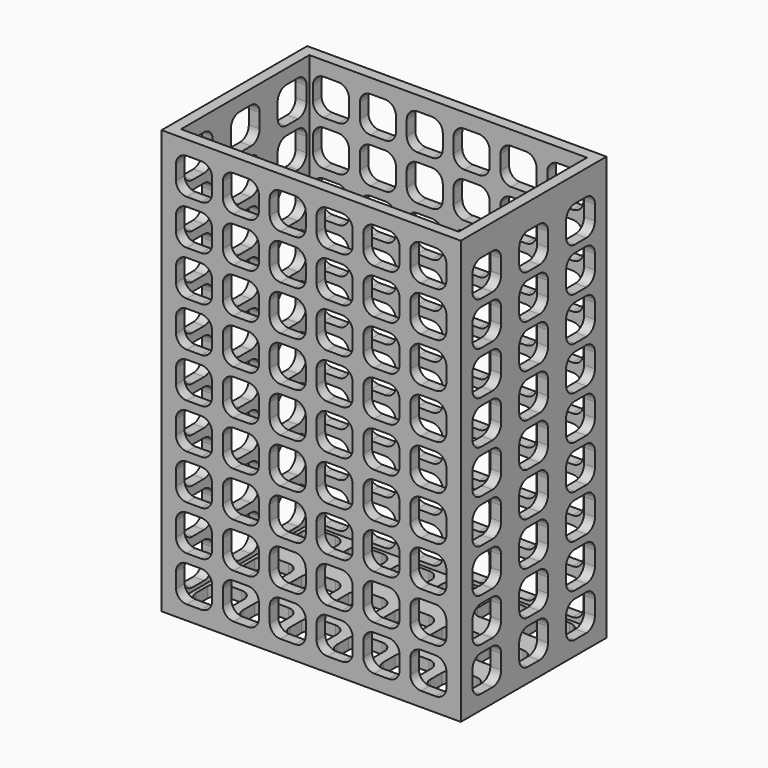
from build123d import *

# Parameters (mm, degrees)
SKETCH_W                           = 83
SKETCH_H                           = 50.5
PAD_DEPTH                          = 117.5
SKETCH001_W                        = 77
SKETCH001_H                        = 44.5
POCKET_DEPTH                       = 114.5
POCKET001_DEPTH                    = 3
POCKET001_LINEARPATTERN_2_DEPTH    = 3
POCKET001_LINEARPATTERN_3_DEPTH    = 3
POCKET001_LINEARPATTERN_4_DEPTH    = 3
POCKET001_LINEARPATTERN_5_DEPTH    = 3
POCKET001_LINEARPATTERN_6_DEPTH    = 3
LINEARPATTERN001_COUNT             = 9
LINEARPATTERN001_PITCH             = 12.4375
POCKET002_DEPTH                    = 3
POCKET002_LINEARPATTERN003_2_DEPTH = 3
POCKET002_LINEARPATTERN003_3_DEPTH = 3
POCKET002_LINEARPATTERN003_4_DEPTH = 3
POCKET002_LINEARPATTERN003_5_DEPTH = 3
POCKET002_LINEARPATTERN003_6_DEPTH = 3
LINEARPATTERN004_COUNT             = 3
LINEARPATTERN004_PITCH             = 16.25
POCKET003_DEPTH                    = 3
POCKET003_LINEARPATTERN005_2_DEPTH = 3
POCKET003_LINEARPATTERN005_3_DEPTH = 3
LINEARPATTERN006_COUNT             = 9
LINEARPATTERN006_PITCH             = 12.4375
POCKET004_DEPTH                    = 3
POCKET004_LINEARPATTERN007_2_DEPTH = 3
POCKET004_LINEARPATTERN007_3_DEPTH = 3
POCKET004_LINEARPATTERN007_4_DEPTH = 3
POCKET004_LINEARPATTERN007_5_DEPTH = 3
POCKET004_LINEARPATTERN007_6_DEPTH = 3
LINEARPATTERN008_COUNT             = 9
LINEARPATTERN008_PITCH             = 12.4375
POCKET005_DEPTH                    = 3
POCKET005_LINEARPATTERN009_2_DEPTH = 3
POCKET005_LINEARPATTERN009_3_DEPTH = 3
LINEARPATTERN010_COUNT             = 9
LINEARPATTERN010_PITCH             = 12.0625


with BuildPart() as part:
    # Sketch → Pad (new body)
    with BuildSketch(Plane.XY):
        with Locations((41.5, 25.25)):
            Rectangle(SKETCH_W, SKETCH_H)
    extrude(amount=PAD_DEPTH)

    # Sketch001 (on Face6 of Pad) → Pocket (cut)
    with BuildSketch(Plane.XY.offset(117.5)):
        with Locations((41.5, 25.25)):
            Rectangle(SKETCH001_W, SKETCH001_H)
    extrude(amount=-POCKET_DEPTH, mode=Mode.SUBTRACT)

    # Sketch002 (on Face1 of Pocket) → Pocket001 (cut)
    with BuildSketch(Plane.XZ):
        with BuildLine():
            Line((7, 14), (11, 14))
            ThreePointArc((14, 11), (13.12132, 13.12132), (11, 14))
            Line((14, 11), (14, 7))
            ThreePointArc((11, 4), (13.12132, 4.87868), (14, 7))
            Line((11, 4), (7, 4))
            ThreePointArc((4, 7), (4.87868, 4.87868), (7, 4))
            Line((4, 7), (4, 11))
            ThreePointArc((7, 14), (4.87868, 13.12132), (4, 11))
        make_face()
    pocket001 = extrude(amount=-POCKET001_DEPTH, mode=Mode.SUBTRACT)

    # Sketch002 LinearPattern 2 → Pocket001 LinearPattern 2 (cut)
    with BuildSketch(Plane(origin=(13, 0, 0), x_dir=(1, 0, 0), z_dir=(0, -1, 0))):
        with BuildLine():
            Line((7, 14), (11, 14))
            ThreePointArc((14, 11), (13.12132, 13.12132), (11, 14))
            Line((14, 11), (14, 7))
            ThreePointArc((11, 4), (13.12132, 4.87868), (14, 7))
            Line((11, 4), (7, 4))
            ThreePointArc((4, 7), (4.87868, 4.87868), (7, 4))
            Line((4, 7), (4, 11))
            ThreePointArc((7, 14), (4.87868, 13.12132), (4, 11))
        make_face()
    pocket001_linearpattern_2 = extrude(amount=-POCKET001_LINEARPATTERN_2_DEPTH, mode=Mode.SUBTRACT)

    # Sketch002 LinearPattern 3 → Pocket001 LinearPattern 3 (cut)
    with BuildSketch(Plane(origin=(26, 0, 0), x_dir=(1, 0, 0), z_dir=(0, -1, 0))):
        with BuildLine():
            Line((7, 14), (11, 14))
            ThreePointArc((14, 11), (13.12132, 13.12132), (11, 14))
            Line((14, 11), (14, 7))
            ThreePointArc((11, 4), (13.12132, 4.87868), (14, 7))
            Line((11, 4), (7, 4))
            ThreePointArc((4, 7), (4.87868, 4.87868), (7, 4))
            Line((4, 7), (4, 11))
            ThreePointArc((7, 14), (4.87868, 13.12132), (4, 11))
        make_face()
    pocket001_linearpattern_3 = extrude(amount=-POCKET001_LINEARPATTERN_3_DEPTH, mode=Mode.SUBTRACT)

    # Sketch002 LinearPattern 4 → Pocket001 LinearPattern 4 (cut)
    with BuildSketch(Plane(origin=(39, 0, 0), x_dir=(1, 0, 0), z_dir=(0, -1, 0))):
        with BuildLine():
            Line((7, 14), (11, 14))
            ThreePointArc((14, 11), (13.12132, 13.12132), (11, 14))
            Line((14, 11), (14, 7))
            ThreePointArc((11, 4), (13.12132, 4.87868), (14, 7))
            Line((11, 4), (7, 4))
            ThreePointArc((4, 7), (4.87868, 4.87868), (7, 4))
            Line((4, 7), (4, 11))
            ThreePointArc((7, 14), (4.87868, 13.12132), (4, 11))
        make_face()
    pocket001_linearpattern_4 = extrude(amount=-POCKET001_LINEARPATTERN_4_DEPTH, mode=Mode.SUBTRACT)

    # Sketch002 LinearPattern 5 → Pocket001 LinearPattern 5 (cut)
    with BuildSketch(Plane(origin=(52, 0, 0), x_dir=(1, 0, 0), z_dir=(0, -1, 0))):
        with BuildLine():
            Line((7, 14), (11, 14))
            ThreePointArc((14, 11), (13.12132, 13.12132), (11, 14))
            Line((14, 11), (14, 7))
            ThreePointArc((11, 4), (13.12132, 4.87868), (14, 7))
            Line((11, 4), (7, 4))
            ThreePointArc((4, 7), (4.87868, 4.87868), (7, 4))
            Line((4, 7), (4, 11))
            ThreePointArc((7, 14), (4.87868, 13.12132), (4, 11))
        make_face()
    pocket001_linearpattern_5 = extrude(amount=-POCKET001_LINEARPATTERN_5_DEPTH, mode=Mode.SUBTRACT)

    # Sketch002 LinearPattern 6 → Pocket001 LinearPattern 6 (cut)
    with BuildSketch(Plane(origin=(65, 0, 0), x_dir=(1, 0, 0), z_dir=(0, -1, 0))):
        with BuildLine():
            Line((7, 14), (11, 14))
            ThreePointArc((14, 11), (13.12132, 13.12132), (11, 14))
            Line((14, 11), (14, 7))
            ThreePointArc((11, 4), (13.12132, 4.87868), (14, 7))
            Line((11, 4), (7, 4))
            ThreePointArc((4, 7), (4.87868, 4.87868), (7, 4))
            Line((4, 7), (4, 11))
            ThreePointArc((7, 14), (4.87868, 13.12132), (4, 11))
        make_face()
    pocket001_linearpattern_6 = extrude(amount=-POCKET001_LINEARPATTERN_6_DEPTH, mode=Mode.SUBTRACT)

    # LinearPattern001: Pocket001, Pocket001 LinearPattern 2, Pocket001 LinearPattern 3, Pocket001 LinearPattern 4, Pocket001 LinearPattern 5, Pocket001 LinearPattern 6 ×9
    with Locations(*[(0, 0, i * LINEARPATTERN001_PITCH) for i in range(1, LINEARPATTERN001_COUNT)]):
        add(pocket001, mode=Mode.SUBTRACT)
        add(pocket001_linearpattern_2, mode=Mode.SUBTRACT)
        add(pocket001_linearpattern_3, mode=Mode.SUBTRACT)
        add(pocket001_linearpattern_4, mode=Mode.SUBTRACT)
        add(pocket001_linearpattern_5, mode=Mode.SUBTRACT)
        add(pocket001_linearpattern_6, mode=Mode.SUBTRACT)

    # Sketch003 (on Face3 of MultiTransform) → Pocket002 (cut)
    with BuildSketch(Plane(origin=(0, 0, 0), x_dir=(1, 0, 0), z_dir=(0, 0, -1))):
        with BuildLine():
            Line((7, -4), (11, -4))
            ThreePointArc((14, -7), (13.12132, -4.87868), (11, -4))
            Line((14, -7), (14, -11))
            ThreePointArc((11, -14), (13.12132, -13.12132), (14, -11))
            Line((11, -14), (7, -14))
            ThreePointArc((4, -11), (4.87868, -13.12132), (7, -14))
            Line((4, -11), (4, -7))
            ThreePointArc((7, -4), (4.87868, -4.87868), (4, -7))
        make_face()
    pocket002 = extrude(amount=-POCKET002_DEPTH, mode=Mode.SUBTRACT)

    # Sketch003 LinearPattern003 2 → Pocket002 LinearPattern003 2 (cut)
    with BuildSketch(Plane(origin=(13, 0, 0), x_dir=(1, 0, 0), z_dir=(0, 0, -1))):
        with BuildLine():
            Line((7, -4), (11, -4))
            ThreePointArc((14, -7), (13.12132, -4.87868), (11, -4))
            Line((14, -7), (14, -11))
            ThreePointArc((11, -14), (13.12132, -13.12132), (14, -11))
            Line((11, -14), (7, -14))
            ThreePointArc((4, -11), (4.87868, -13.12132), (7, -14))
            Line((4, -11), (4, -7))
            ThreePointArc((7, -4), (4.87868, -4.87868), (4, -7))
        make_face()
    pocket002_linearpattern003_2 = extrude(amount=-POCKET002_LINEARPATTERN003_2_DEPTH, mode=Mode.SUBTRACT)

    # Sketch003 LinearPattern003 3 → Pocket002 LinearPattern003 3 (cut)
    with BuildSketch(Plane(origin=(26, 0, 0), x_dir=(1, 0, 0), z_dir=(0, 0, -1))):
        with BuildLine():
            Line((7, -4), (11, -4))
            ThreePointArc((14, -7), (13.12132, -4.87868), (11, -4))
            Line((14, -7), (14, -11))
            ThreePointArc((11, -14), (13.12132, -13.12132), (14, -11))
            Line((11, -14), (7, -14))
            ThreePointArc((4, -11), (4.87868, -13.12132), (7, -14))
            Line((4, -11), (4, -7))
            ThreePointArc((7, -4), (4.87868, -4.87868), (4, -7))
        make_face()
    pocket002_linearpattern003_3 = extrude(amount=-POCKET002_LINEARPATTERN003_3_DEPTH, mode=Mode.SUBTRACT)

    # Sketch003 LinearPattern003 4 → Pocket002 LinearPattern003 4 (cut)
    with BuildSketch(Plane(origin=(39, 0, 0), x_dir=(1, 0, 0), z_dir=(0, 0, -1))):
        with BuildLine():
            Line((7, -4), (11, -4))
            ThreePointArc((14, -7), (13.12132, -4.87868), (11, -4))
            Line((14, -7), (14, -11))
            ThreePointArc((11, -14), (13.12132, -13.12132), (14, -11))
            Line((11, -14), (7, -14))
            ThreePointArc((4, -11), (4.87868, -13.12132), (7, -14))
            Line((4, -11), (4, -7))
            ThreePointArc((7, -4), (4.87868, -4.87868), (4, -7))
        make_face()
    pocket002_linearpattern003_4 = extrude(amount=-POCKET002_LINEARPATTERN003_4_DEPTH, mode=Mode.SUBTRACT)

    # Sketch003 LinearPattern003 5 → Pocket002 LinearPattern003 5 (cut)
    with BuildSketch(Plane(origin=(52, 0, 0), x_dir=(1, 0, 0), z_dir=(0, 0, -1))):
        with BuildLine():
            Line((7, -4), (11, -4))
            ThreePointArc((14, -7), (13.12132, -4.87868), (11, -4))
            Line((14, -7), (14, -11))
            ThreePointArc((11, -14), (13.12132, -13.12132), (14, -11))
            Line((11, -14), (7, -14))
            ThreePointArc((4, -11), (4.87868, -13.12132), (7, -14))
            Line((4, -11), (4, -7))
            ThreePointArc((7, -4), (4.87868, -4.87868), (4, -7))
        make_face()
    pocket002_linearpattern003_5 = extrude(amount=-POCKET002_LINEARPATTERN003_5_DEPTH, mode=Mode.SUBTRACT)

    # Sketch003 LinearPattern003 6 → Pocket002 LinearPattern003 6 (cut)
    with BuildSketch(Plane(origin=(65, 0, 0), x_dir=(1, 0, 0), z_dir=(0, 0, -1))):
        with BuildLine():
            Line((7, -4), (11, -4))
            ThreePointArc((14, -7), (13.12132, -4.87868), (11, -4))
            Line((14, -7), (14, -11))
            ThreePointArc((11, -14), (13.12132, -13.12132), (14, -11))
            Line((11, -14), (7, -14))
            ThreePointArc((4, -11), (4.87868, -13.12132), (7, -14))
            Line((4, -11), (4, -7))
            ThreePointArc((7, -4), (4.87868, -4.87868), (4, -7))
        make_face()
    pocket002_linearpattern003_6 = extrude(amount=-POCKET002_LINEARPATTERN003_6_DEPTH, mode=Mode.SUBTRACT)

    # LinearPattern004: Pocket002, Pocket002 LinearPattern003 2, Pocket002 LinearPattern003 3, Pocket002 LinearPattern003 4, Pocket002 LinearPattern003 5, Pocket002 LinearPattern003 6 ×3
    with Locations(*[(0, i * LINEARPATTERN004_PITCH, 0) for i in range(1, LINEARPATTERN004_COUNT)]):
        add(pocket002, mode=Mode.SUBTRACT)
        add(pocket002_linearpattern003_2, mode=Mode.SUBTRACT)
        add(pocket002_linearpattern003_3, mode=Mode.SUBTRACT)
        add(pocket002_linearpattern003_4, mode=Mode.SUBTRACT)
        add(pocket002_linearpattern003_5, mode=Mode.SUBTRACT)
        add(pocket002_linearpattern003_6, mode=Mode.SUBTRACT)

    # Sketch004 (on Face2 of MultiTransform001) → Pocket003 (cut)
    with BuildSketch(Plane(origin=(0, 0, 0), x_dir=(0, -1, 0), z_dir=(-1, 0, 0))):
        with BuildLine():
            Line((-11, 14), (-7, 14))
            ThreePointArc((-4, 11), (-4.87868, 13.12132), (-7, 14))
            Line((-4, 11), (-4, 7))
            ThreePointArc((-7, 4), (-4.87868, 4.87868), (-4, 7))
            Line((-7, 4), (-11, 4))
            ThreePointArc((-14, 7), (-13.12132, 4.87868), (-11, 4))
            Line((-14, 7), (-14, 11))
            ThreePointArc((-11, 14), (-13.12132, 13.12132), (-14, 11))
        make_face()
    pocket003 = extrude(amount=-POCKET003_DEPTH, mode=Mode.SUBTRACT)

    # Sketch004 LinearPattern005 2 → Pocket003 LinearPattern005 2 (cut)
    with BuildSketch(Plane(origin=(0, 16.25, 0), x_dir=(0, -1, 0), z_dir=(-1, 0, 0))):
        with BuildLine():
            Line((-11, 14), (-7, 14))
            ThreePointArc((-4, 11), (-4.87868, 13.12132), (-7, 14))
            Line((-4, 11), (-4, 7))
            ThreePointArc((-7, 4), (-4.87868, 4.87868), (-4, 7))
            Line((-7, 4), (-11, 4))
            ThreePointArc((-14, 7), (-13.12132, 4.87868), (-11, 4))
            Line((-14, 7), (-14, 11))
            ThreePointArc((-11, 14), (-13.12132, 13.12132), (-14, 11))
        make_face()
    pocket003_linearpattern005_2 = extrude(amount=-POCKET003_LINEARPATTERN005_2_DEPTH, mode=Mode.SUBTRACT)

    # Sketch004 LinearPattern005 3 → Pocket003 LinearPattern005 3 (cut)
    with BuildSketch(Plane(origin=(0, 32.5, 0), x_dir=(0, -1, 0), z_dir=(-1, 0, 0))):
        with BuildLine():
            Line((-11, 14), (-7, 14))
            ThreePointArc((-4, 11), (-4.87868, 13.12132), (-7, 14))
            Line((-4, 11), (-4, 7))
            ThreePointArc((-7, 4), (-4.87868, 4.87868), (-4, 7))
            Line((-7, 4), (-11, 4))
            ThreePointArc((-14, 7), (-13.12132, 4.87868), (-11, 4))
            Line((-14, 7), (-14, 11))
            ThreePointArc((-11, 14), (-13.12132, 13.12132), (-14, 11))
        make_face()
    pocket003_linearpattern005_3 = extrude(amount=-POCKET003_LINEARPATTERN005_3_DEPTH, mode=Mode.SUBTRACT)

    # LinearPattern006: Pocket003, Pocket003 LinearPattern005 2, Pocket003 LinearPattern005 3 ×9
    with Locations(*[(0, 0, i * LINEARPATTERN006_PITCH) for i in range(1, LINEARPATTERN006_COUNT)]):
        add(pocket003, mode=Mode.SUBTRACT)
        add(pocket003_linearpattern005_2, mode=Mode.SUBTRACT)
        add(pocket003_linearpattern005_3, mode=Mode.SUBTRACT)

    # Sketch005 (on Face510 of MultiTransform002) → Pocket004 (cut)
    with BuildSketch(Plane(origin=(0, 50.5, 0), x_dir=(-1, 0, 0), z_dir=(0, 1, 0))):
        with BuildLine():
            Line((-11, 14), (-7, 14))
            ThreePointArc((-4, 11), (-4.87868, 13.12132), (-7, 14))
            Line((-4, 11), (-4, 7))
            ThreePointArc((-7, 4), (-4.87868, 4.87868), (-4, 7))
            Line((-7, 4), (-11, 4))
            ThreePointArc((-14, 7), (-13.12132, 4.87868), (-11, 4))
            Line((-14, 7), (-14, 11))
            ThreePointArc((-11, 14), (-13.12132, 13.12132), (-14, 11))
        make_face()
    pocket004 = extrude(amount=-POCKET004_DEPTH, mode=Mode.SUBTRACT)

    # Sketch005 LinearPattern007 2 → Pocket004 LinearPattern007 2 (cut)
    with BuildSketch(Plane(origin=(13, 50.5, 0), x_dir=(-1, 0, 0), z_dir=(0, 1, 0))):
        with BuildLine():
            Line((-11, 14), (-7, 14))
            ThreePointArc((-4, 11), (-4.87868, 13.12132), (-7, 14))
            Line((-4, 11), (-4, 7))
            ThreePointArc((-7, 4), (-4.87868, 4.87868), (-4, 7))
            Line((-7, 4), (-11, 4))
            ThreePointArc((-14, 7), (-13.12132, 4.87868), (-11, 4))
            Line((-14, 7), (-14, 11))
            ThreePointArc((-11, 14), (-13.12132, 13.12132), (-14, 11))
        make_face()
    pocket004_linearpattern007_2 = extrude(amount=-POCKET004_LINEARPATTERN007_2_DEPTH, mode=Mode.SUBTRACT)

    # Sketch005 LinearPattern007 3 → Pocket004 LinearPattern007 3 (cut)
    with BuildSketch(Plane(origin=(26, 50.5, 0), x_dir=(-1, 0, 0), z_dir=(0, 1, 0))):
        with BuildLine():
            Line((-11, 14), (-7, 14))
            ThreePointArc((-4, 11), (-4.87868, 13.12132), (-7, 14))
            Line((-4, 11), (-4, 7))
            ThreePointArc((-7, 4), (-4.87868, 4.87868), (-4, 7))
            Line((-7, 4), (-11, 4))
            ThreePointArc((-14, 7), (-13.12132, 4.87868), (-11, 4))
            Line((-14, 7), (-14, 11))
            ThreePointArc((-11, 14), (-13.12132, 13.12132), (-14, 11))
        make_face()
    pocket004_linearpattern007_3 = extrude(amount=-POCKET004_LINEARPATTERN007_3_DEPTH, mode=Mode.SUBTRACT)

    # Sketch005 LinearPattern007 4 → Pocket004 LinearPattern007 4 (cut)
    with BuildSketch(Plane(origin=(39, 50.5, 0), x_dir=(-1, 0, 0), z_dir=(0, 1, 0))):
        with BuildLine():
            Line((-11, 14), (-7, 14))
            ThreePointArc((-4, 11), (-4.87868, 13.12132), (-7, 14))
            Line((-4, 11), (-4, 7))
            ThreePointArc((-7, 4), (-4.87868, 4.87868), (-4, 7))
            Line((-7, 4), (-11, 4))
            ThreePointArc((-14, 7), (-13.12132, 4.87868), (-11, 4))
            Line((-14, 7), (-14, 11))
            ThreePointArc((-11, 14), (-13.12132, 13.12132), (-14, 11))
        make_face()
    pocket004_linearpattern007_4 = extrude(amount=-POCKET004_LINEARPATTERN007_4_DEPTH, mode=Mode.SUBTRACT)

    # Sketch005 LinearPattern007 5 → Pocket004 LinearPattern007 5 (cut)
    with BuildSketch(Plane(origin=(52, 50.5, 0), x_dir=(-1, 0, 0), z_dir=(0, 1, 0))):
        with BuildLine():
            Line((-11, 14), (-7, 14))
            ThreePointArc((-4, 11), (-4.87868, 13.12132), (-7, 14))
            Line((-4, 11), (-4, 7))
            ThreePointArc((-7, 4), (-4.87868, 4.87868), (-4, 7))
            Line((-7, 4), (-11, 4))
            ThreePointArc((-14, 7), (-13.12132, 4.87868), (-11, 4))
            Line((-14, 7), (-14, 11))
            ThreePointArc((-11, 14), (-13.12132, 13.12132), (-14, 11))
        make_face()
    pocket004_linearpattern007_5 = extrude(amount=-POCKET004_LINEARPATTERN007_5_DEPTH, mode=Mode.SUBTRACT)

    # Sketch005 LinearPattern007 6 → Pocket004 LinearPattern007 6 (cut)
    with BuildSketch(Plane(origin=(65, 50.5, 0), x_dir=(-1, 0, 0), z_dir=(0, 1, 0))):
        with BuildLine():
            Line((-11, 14), (-7, 14))
            ThreePointArc((-4, 11), (-4.87868, 13.12132), (-7, 14))
            Line((-4, 11), (-4, 7))
            ThreePointArc((-7, 4), (-4.87868, 4.87868), (-4, 7))
            Line((-7, 4), (-11, 4))
            ThreePointArc((-14, 7), (-13.12132, 4.87868), (-11, 4))
            Line((-14, 7), (-14, 11))
            ThreePointArc((-11, 14), (-13.12132, 13.12132), (-14, 11))
        make_face()
    pocket004_linearpattern007_6 = extrude(amount=-POCKET004_LINEARPATTERN007_6_DEPTH, mode=Mode.SUBTRACT)

    # LinearPattern008: Pocket004, Pocket004 LinearPattern007 2, Pocket004 LinearPattern007 3, Pocket004 LinearPattern007 4, Pocket004 LinearPattern007 5, Pocket004 LinearPattern007 6 ×9
    with Locations(*[(0, 0, i * LINEARPATTERN008_PITCH) for i in range(1, LINEARPATTERN008_COUNT)]):
        add(pocket004, mode=Mode.SUBTRACT)
        add(pocket004_linearpattern007_2, mode=Mode.SUBTRACT)
        add(pocket004_linearpattern007_3, mode=Mode.SUBTRACT)
        add(pocket004_linearpattern007_4, mode=Mode.SUBTRACT)
        add(pocket004_linearpattern007_5, mode=Mode.SUBTRACT)
        add(pocket004_linearpattern007_6, mode=Mode.SUBTRACT)

    # Sketch006 (on Face5 of MultiTransform003) → Pocket005 (cut)
    with BuildSketch(Plane.YZ.offset(83)):
        with BuildLine():
            Line((7, 14), (11, 14))
            ThreePointArc((14, 11), (13.12132, 13.12132), (11, 14))
            Line((14, 11), (14, 7))
            ThreePointArc((11, 4), (13.12132, 4.87868), (14, 7))
            Line((11, 4), (7, 4))
            ThreePointArc((4, 7), (4.87868, 4.87868), (7, 4))
            Line((4, 7), (4, 11))
            ThreePointArc((7, 14), (4.87868, 13.12132), (4, 11))
        make_face()
    pocket005 = extrude(amount=-POCKET005_DEPTH, mode=Mode.SUBTRACT)

    # Sketch006 LinearPattern009 2 → Pocket005 LinearPattern009 2 (cut)
    with BuildSketch(Plane(origin=(83, 16.25, 0), x_dir=(0, 1, 0), z_dir=(1, 0, 0))):
        with BuildLine():
            Line((7, 14), (11, 14))
            ThreePointArc((14, 11), (13.12132, 13.12132), (11, 14))
            Line((14, 11), (14, 7))
            ThreePointArc((11, 4), (13.12132, 4.87868), (14, 7))
            Line((11, 4), (7, 4))
            ThreePointArc((4, 7), (4.87868, 4.87868), (7, 4))
            Line((4, 7), (4, 11))
            ThreePointArc((7, 14), (4.87868, 13.12132), (4, 11))
        make_face()
    pocket005_linearpattern009_2 = extrude(amount=-POCKET005_LINEARPATTERN009_2_DEPTH, mode=Mode.SUBTRACT)

    # Sketch006 LinearPattern009 3 → Pocket005 LinearPattern009 3 (cut)
    with BuildSketch(Plane(origin=(83, 32.5, 0), x_dir=(0, 1, 0), z_dir=(1, 0, 0))):
        with BuildLine():
            Line((7, 14), (11, 14))
            ThreePointArc((14, 11), (13.12132, 13.12132), (11, 14))
            Line((14, 11), (14, 7))
            ThreePointArc((11, 4), (13.12132, 4.87868), (14, 7))
            Line((11, 4), (7, 4))
            ThreePointArc((4, 7), (4.87868, 4.87868), (7, 4))
            Line((4, 7), (4, 11))
            ThreePointArc((7, 14), (4.87868, 13.12132), (4, 11))
        make_face()
    pocket005_linearpattern009_3 = extrude(amount=-POCKET005_LINEARPATTERN009_3_DEPTH, mode=Mode.SUBTRACT)

    # LinearPattern010: Pocket005, Pocket005 LinearPattern009 2, Pocket005 LinearPattern009 3 ×9
    with Locations(*[(0, 0, i * LINEARPATTERN010_PITCH) for i in range(1, LINEARPATTERN010_COUNT)]):
        add(pocket005, mode=Mode.SUBTRACT)
        add(pocket005_linearpattern009_2, mode=Mode.SUBTRACT)
        add(pocket005_linearpattern009_3, mode=Mode.SUBTRACT)


solid = part.part
